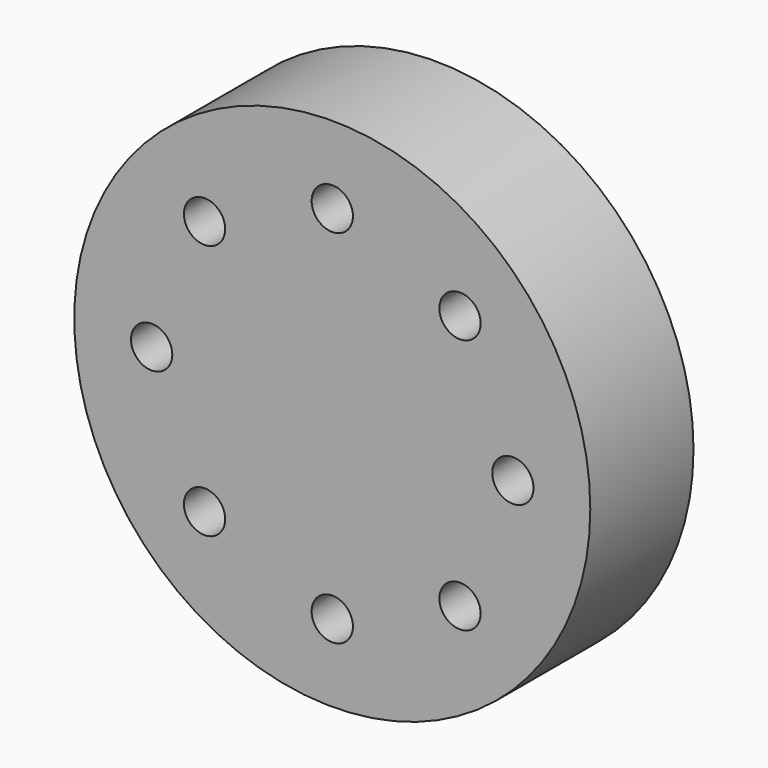
from build123d import *

# Parameters (mm, degrees)
F0_R     = 50
F0_R_2   = 4
F1_DEPTH = 25


with BuildPart() as f1:
    # F0 (on Front) → F1 (new body)
    with BuildSketch(Plane.XZ):
        Circle(F0_R)
        with Locations((-24.748737, -24.748737)):
            Circle(F0_R_2, mode=Mode.SUBTRACT)
        with Locations((0, -35)):
            Circle(F0_R_2, mode=Mode.SUBTRACT)
        with Locations((24.748737, -24.748737)):
            Circle(F0_R_2, mode=Mode.SUBTRACT)
        with Locations((-35, 0)):
            Circle(F0_R_2, mode=Mode.SUBTRACT)
        with Locations((-24.748737, 24.748737)):
            Circle(F0_R_2, mode=Mode.SUBTRACT)
        with Locations((24.748737, 24.748737)):
            Circle(F0_R_2, mode=Mode.SUBTRACT)
        with Locations((35, 0)):
            Circle(F0_R_2, mode=Mode.SUBTRACT)
        with Locations((0, 35)):
            Circle(F0_R_2, mode=Mode.SUBTRACT)
    extrude(amount=F1_DEPTH)


solid = f1.part
